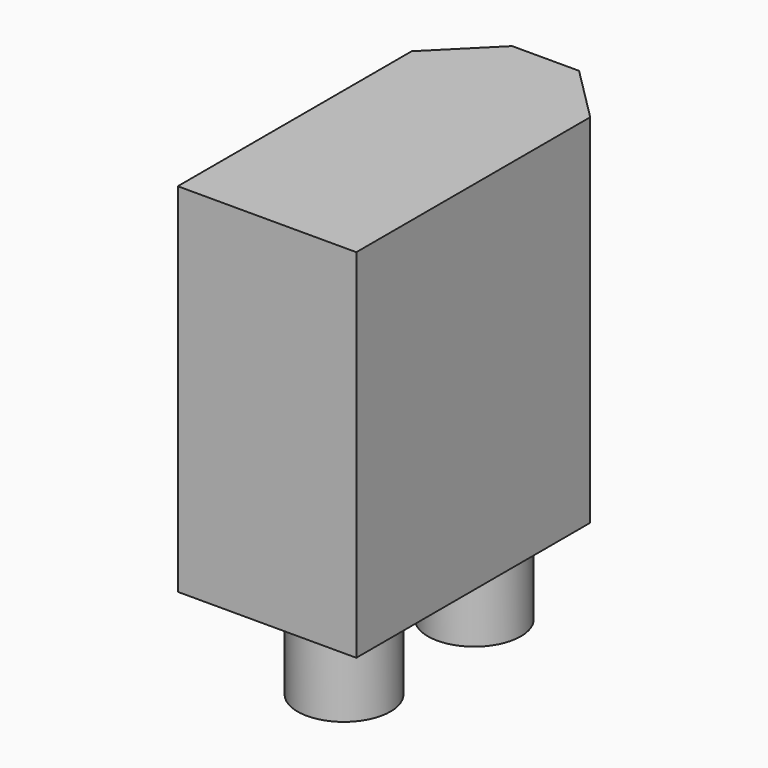
from build123d import *

# Parameters (mm, degrees)
F1_DEPTH = 16
F2_R     = 2.08
F3_DEPTH = 4.5


with BuildPart() as f1:
    # F0 (on Top) → F1 (new body)
    with BuildSketch(Plane.XY):
        Polygon((-4, 13.1), (-4, 0), (4, 0), (4, 13.1), (1.5, 15.6), (-1.5, 15.6), align=None)
    extrude(amount=F1_DEPTH)

    # F2 (on face) → F3 (join)
    with BuildSketch(Plane(origin=(0, 0, 0), x_dir=(1, 0, 0), z_dir=(0, 0, -1))):
        with Locations((0, -4.31)):
            Circle(F2_R)
        with Locations((0, -11.61)):
            Circle(F2_R)
    extrude(amount=F3_DEPTH)


solid = f1.part
